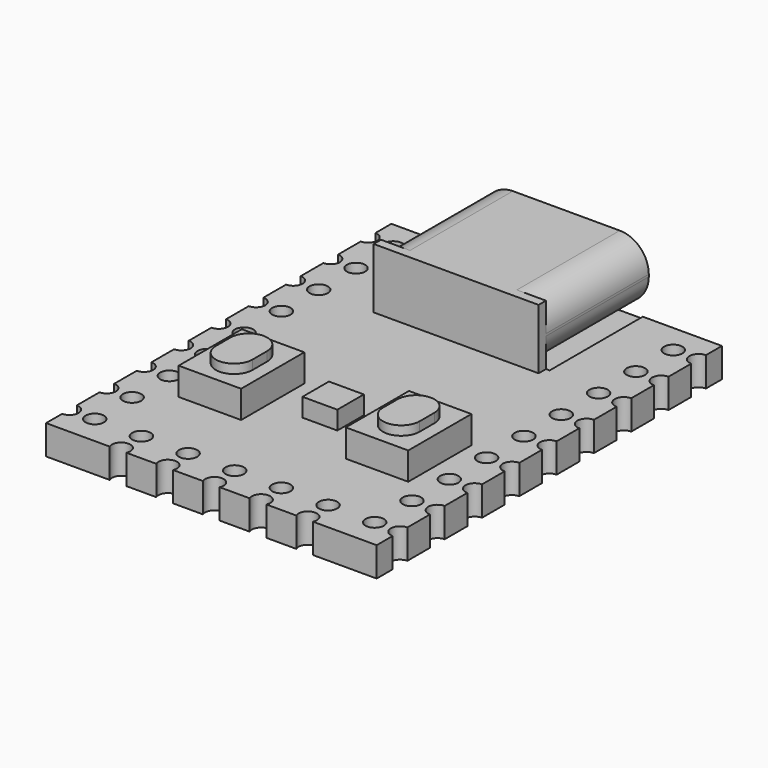
from build123d import *

# Parameters (mm, degrees)
SKETCH_W        = 18
SKETCH_H        = 23.5
SKETCH_R        = 0.5
PAD_DEPTH       = 1.6
SKETCH001_R     = 0.5
POCKET_DEPTH    = 5
SKETCH002_W     = 8.98
SKETCH002_H     = 7.5
PAD001_DEPTH    = 3.28
SKETCH003_W     = 9.38
SKETCH003_H     = 4.38
POCKET001_DEPTH = 7
SKETCH004_W     = 6.69
SKETCH004_H     = 1.2
POCKET002_DEPTH = 6
SKETCH005_W     = 3.4
SKETCH005_H     = 4.3
PAD002_DEPTH    = 1.5
SKETCH006_W     = 1.9
SKETCH006_H     = 1.8
PAD003_DEPTH    = 1
PAD004_DEPTH    = 0.5


with BuildPart() as part:
    # Sketch → Pad (new body)
    with BuildSketch(Plane.XY):
        with Locations((9, 11.75)):
            Rectangle(SKETCH_W, SKETCH_H)
        with Locations((1.38, 21.91)):
            Circle(SKETCH_R, mode=Mode.SUBTRACT)
        with Locations((1.38, 19.37)):
            Circle(SKETCH_R, mode=Mode.SUBTRACT)
        with Locations((1.38, 16.83)):
            Circle(SKETCH_R, mode=Mode.SUBTRACT)
        with Locations((1.38, 14.29)):
            Circle(SKETCH_R, mode=Mode.SUBTRACT)
        with Locations((1.38, 11.75)):
            Circle(SKETCH_R, mode=Mode.SUBTRACT)
        with Locations((1.38, 9.21)):
            Circle(SKETCH_R, mode=Mode.SUBTRACT)
        with Locations((1.38, 6.67)):
            Circle(SKETCH_R, mode=Mode.SUBTRACT)
        with Locations((1.38, 4.13)):
            Circle(SKETCH_R, mode=Mode.SUBTRACT)
        with Locations((1.38, 1.59)):
            Circle(SKETCH_R, mode=Mode.SUBTRACT)
        with Locations((16.62, 21.91)):
            Circle(SKETCH_R, mode=Mode.SUBTRACT)
        with Locations((16.62, 19.37)):
            Circle(SKETCH_R, mode=Mode.SUBTRACT)
        with Locations((16.62, 16.83)):
            Circle(SKETCH_R, mode=Mode.SUBTRACT)
        with Locations((16.62, 14.29)):
            Circle(SKETCH_R, mode=Mode.SUBTRACT)
        with Locations((16.62, 11.75)):
            Circle(SKETCH_R, mode=Mode.SUBTRACT)
        with Locations((16.62, 9.21)):
            Circle(SKETCH_R, mode=Mode.SUBTRACT)
        with Locations((16.62, 6.67)):
            Circle(SKETCH_R, mode=Mode.SUBTRACT)
        with Locations((16.62, 4.13)):
            Circle(SKETCH_R, mode=Mode.SUBTRACT)
        with Locations((16.62, 1.59)):
            Circle(SKETCH_R, mode=Mode.SUBTRACT)
        with Locations((14.08, 1.59)):
            Circle(SKETCH_R, mode=Mode.SUBTRACT)
        with Locations((11.54, 1.59)):
            Circle(SKETCH_R, mode=Mode.SUBTRACT)
        with Locations((9, 1.59)):
            Circle(SKETCH_R, mode=Mode.SUBTRACT)
        with Locations((6.46, 1.59)):
            Circle(SKETCH_R, mode=Mode.SUBTRACT)
        with Locations((3.92, 1.59)):
            Circle(SKETCH_R, mode=Mode.SUBTRACT)
    extrude(amount=PAD_DEPTH)

    # Sketch001 (on Face29 of Pad) → Pocket (cut)
    with BuildSketch(Plane.XY.offset(1.6)):
        with Locations((0, 21.91)):
            Circle(SKETCH001_R)
        with Locations((0, 19.37)):
            Circle(SKETCH001_R)
        with Locations((0, 16.83)):
            Circle(SKETCH001_R)
        with Locations((0, 14.29)):
            Circle(SKETCH001_R)
        with Locations((0, 11.75)):
            Circle(SKETCH001_R)
        with Locations((0, 9.21)):
            Circle(SKETCH001_R)
        with Locations((0, 6.67)):
            Circle(SKETCH001_R)
        with Locations((0, 4.13)):
            Circle(SKETCH001_R)
        with Locations((0, 1.59)):
            Circle(SKETCH001_R)
        with Locations((18, 21.91)):
            Circle(SKETCH001_R)
        with Locations((18, 19.37)):
            Circle(SKETCH001_R)
        with Locations((18, 16.83)):
            Circle(SKETCH001_R)
        with Locations((18, 14.29)):
            Circle(SKETCH001_R)
        with Locations((18, 11.75)):
            Circle(SKETCH001_R)
        with Locations((18, 9.21)):
            Circle(SKETCH001_R)
        with Locations((18, 6.67)):
            Circle(SKETCH001_R)
        with Locations((18, 4.13)):
            Circle(SKETCH001_R)
        with Locations((18, 1.59)):
            Circle(SKETCH001_R)
        with Locations((3.92, 0.21)):
            Circle(SKETCH001_R)
        with Locations((6.46, 0.21)):
            Circle(SKETCH001_R)
        with Locations((9, 0.21)):
            Circle(SKETCH001_R)
        with Locations((11.54, 0.21)):
            Circle(SKETCH001_R)
        with Locations((14.08, 0.21)):
            Circle(SKETCH001_R)
    extrude(amount=-POCKET_DEPTH, mode=Mode.SUBTRACT)

    # Sketch002 (on Face3 of Pocket) → Pad001 (join)
    with BuildSketch(Plane.XY.offset(1.6)):
        with Locations((9, 20.41)):
            Rectangle(SKETCH002_W, SKETCH002_H)
    extrude(amount=PAD001_DEPTH)

    # Sketch003 (on Face80 of Pad001) → Pocket001 (cut)
    with BuildSketch(Plane(origin=(0, 24.16, 0), x_dir=(-1, 0, 0), z_dir=(0, 1, 0))):
        with Locations((-9, 3.69)):
            Rectangle(SKETCH003_W, SKETCH003_H)
        with BuildLine():
            Line((-11.91, 1.6), (-6.09, 1.6))
            ThreePointArc((-6.09, 1.6), (-4.972771, 2.062771), (-4.51, 3.18))
            Line((-4.51, 3.18), (-4.51, 3.3))
            ThreePointArc((-4.51, 3.3), (-4.972771, 4.417229), (-6.09, 4.88))
            Line((-6.09, 4.88), (-11.91, 4.88))
            ThreePointArc((-11.91, 4.88), (-13.027229, 4.417229), (-13.49, 3.3))
            Line((-13.49, 3.3), (-13.49, 3.18))
            ThreePointArc((-13.49, 3.18), (-13.027229, 2.062771), (-11.91, 1.6))
        make_face(mode=Mode.SUBTRACT)
    extrude(amount=-POCKET001_DEPTH, mode=Mode.SUBTRACT)

    # Sketch004 (on Face83 of Pocket001) → Pocket002 (cut)
    with BuildSketch(Plane(origin=(0, 24.16, 0), x_dir=(-1, 0, 0), z_dir=(0, 1, 0))):
        with BuildLine():
            Line((-12.04, 1.85), (-5.96, 1.85))
            ThreePointArc((-5.96, 1.85), (-5.111472, 2.201472), (-4.76, 3.05))
            Line((-4.76, 3.05), (-4.76, 3.43))
            ThreePointArc((-4.76, 3.43), (-5.111472, 4.278528), (-5.96, 4.63))
            Line((-5.96, 4.63), (-12.04, 4.63))
            ThreePointArc((-12.04, 4.63), (-12.888528, 4.278528), (-13.24, 3.43))
            Line((-13.24, 3.43), (-13.24, 3.05))
            ThreePointArc((-13.24, 3.05), (-12.888528, 2.201472), (-12.04, 1.85))
        make_face()
        with Locations((-9, 3.24)):
            Rectangle(SKETCH004_W, SKETCH004_H, mode=Mode.SUBTRACT)
    extrude(amount=-POCKET002_DEPTH, mode=Mode.SUBTRACT)

    # Sketch005 (on Face4 of Pocket002) → Pad002 (join)
    with BuildSketch(Plane.XY.offset(1.6)):
        with Locations((4.6, 7.55)):
            Rectangle(SKETCH005_W, SKETCH005_H)
        with Locations((13.7, 7.55)):
            Rectangle(SKETCH005_W, SKETCH005_H)
    extrude(amount=PAD002_DEPTH)

    # Sketch006 (on Face4 of Pad002) → Pad003 (join)
    with BuildSketch(Plane.XY.offset(1.6)):
        with Locations((9.15, 8.1)):
            Rectangle(SKETCH006_W, SKETCH006_H)
    extrude(amount=PAD003_DEPTH)

    # Sketch007 (on Face106 of Pad003) → Pad004 (join)
    with BuildSketch(Plane.XY.offset(3.1)):
        with BuildLine():
            ThreePointArc((12.7, 7.05), (13.7, 6.05), (14.7, 7.05))
            Line((14.7, 7.05), (14.7, 8.05))
            ThreePointArc((14.7, 8.05), (13.7, 9.05), (12.7, 8.05))
            Line((12.7, 7.05), (12.7, 8.05))
        make_face()
        with BuildLine():
            ThreePointArc((3.6, 7.05), (4.6, 6.05), (5.6, 7.05))
            Line((5.6, 7.05), (5.6, 8.05))
            ThreePointArc((5.6, 8.05), (4.6, 9.05), (3.6, 8.05))
            Line((3.6, 7.05), (3.6, 8.05))
        make_face()
    extrude(amount=PAD004_DEPTH)


solid = part.part
